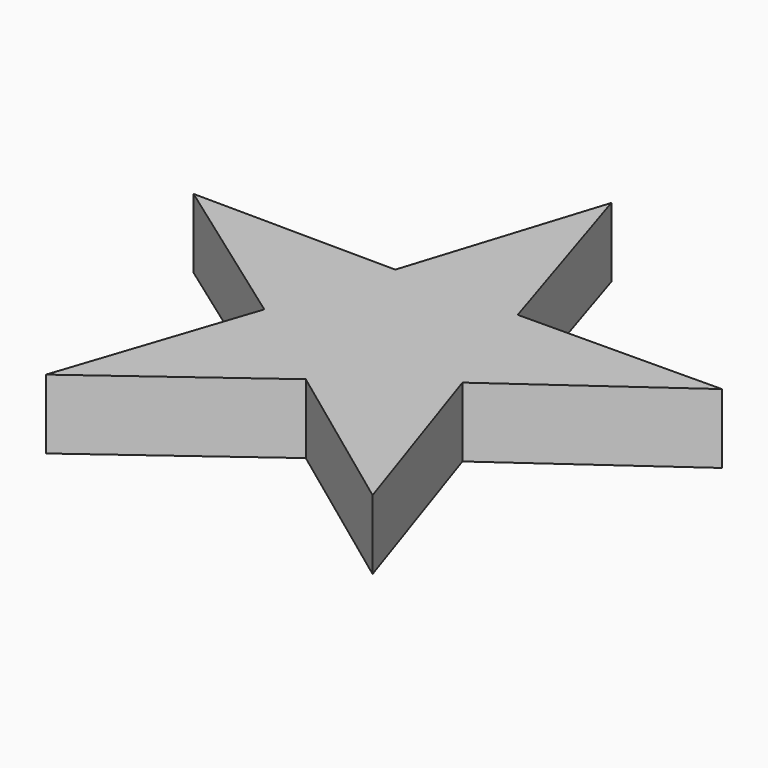
from build123d import *

# Parameters (mm, degrees)
PAD_DEPTH = 10


with BuildPart() as part:
    # Sketch → Pad (new body)
    with BuildSketch(Plane.XY):
        Polygon((0, 40), (8.816779, 12.135255), (38.042261, 12.36068), (14.265848, -4.635255), (23.51141, -32.36068), (0, -15), (-23.51141, -32.36068), (-14.265848, -4.635255), (-38.042261, 12.36068), (-8.816779, 12.135255), align=None)
    extrude(amount=PAD_DEPTH)


solid = part.part
